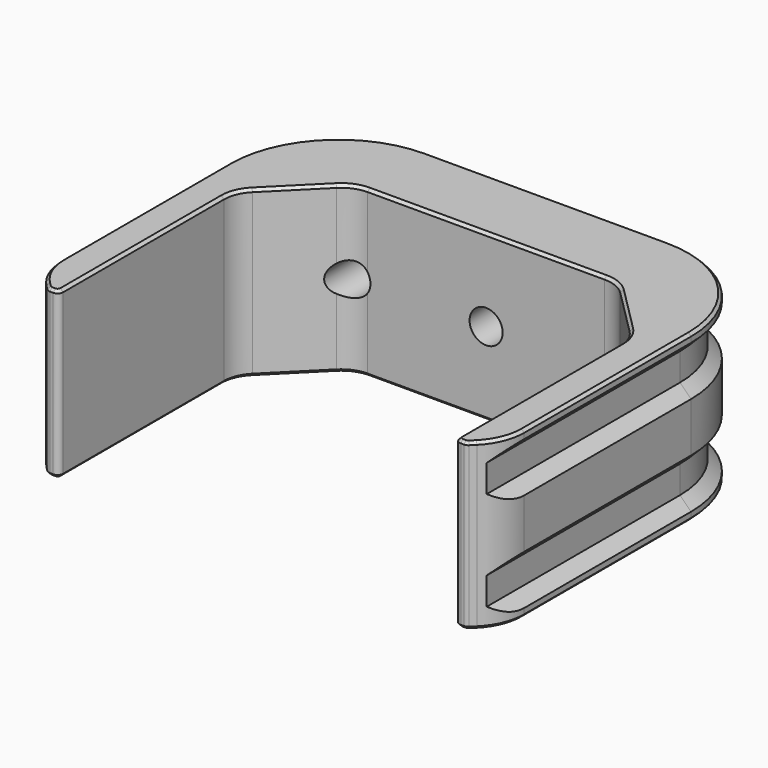
from build123d import *

# Parameters (mm, degrees)
PAD_DEPTH       = 15
FILLET_R        = 10
FILLET001_R     = 3
CHAMFER_SIZE    = 2
FILLET002_R     = 0.5
FILLET003_R     = 5
CHAMFER001_SIZE = 0.25
SKETCH003_R     = 1.5
POCKET_DEPTH    = 33.001


with BuildPart() as sweep_body:
    # Sweep: sweep along a path in Sketch001
    with BuildLine(Plane.XY) as sweep_path:
        Line((21, -10), (21, 15.000008))
        ThreePointArc((21, 15.000008), (18.071065, 22.071071), (11, 25))
        Line((11, 25), (-11, 25))
        ThreePointArc((-11, 25), (-18.071068, 22.071068), (-21, 15))
        Line((-21, 15), (-21, -10))
    # Sketch002 → Sweep (sweep)
    with BuildSketch(Plane.XZ.offset(10)):
        Polygon((22, 3.25), (22, -3.25), (20, -1.25), (20, 1.25), align=None)
    sweep(path=sweep_path.line)


with BuildPart() as sweep_body_1:
    # Sweep placement: moved
    add(sweep_body.part.moved(Location((0, 0, 3))))


with BuildPart() as fusion:
    # Clone base: copy of Sweep body
    add(sweep_body_1.part)


with BuildPart() as fusion_1:
    # Clone placement: moved
    add(fusion.part.moved(Location((0, 0, 9))))

    # Fusion: union Sweep body
    add(sweep_body_1.part)


with BuildPart() as pocket:
    # Sketch → Pad (new body)
    with BuildSketch(Plane.XY):
        Polygon((-18, -8), (-18, 12), (-12, 18), (12, 18), (18, 12), (18, -8), (21, -8), (21, 25), (-21, 25), (-21, -8), align=None)
    extrude(amount=PAD_DEPTH)

    # Fillet
    fillet_edges = [pocket.edges().sort_by_distance(p)[0] for p in [
        (-21, 25, 7.5),
        (21, 25, 7.5),
    ]]
    fillet(fillet_edges, radius=FILLET_R)

    # Fillet001
    fillet001_edges = [pocket.edges().sort_by_distance(p)[0] for p in [
        (-12, 18, 7.5),
        (-18, 12, 7.5),
        (12, 18, 7.5),
        (18, 12, 7.5),
    ]]
    fillet(fillet001_edges, radius=FILLET001_R)

    # Chamfer
    chamfer_edges = [pocket.edges().sort_by_distance(p)[0] for p in [
        (-21, -8, 7.5),
        (21, -8, 7.5),
    ]]
    chamfer(chamfer_edges, length=CHAMFER_SIZE)

    # Fillet002
    fillet002_edges = [pocket.edges().sort_by_distance(p)[0] for p in [
        (-19, -8, 7.5),
        (-18, -8, 7.5),
        (19, -8, 7.5),
        (18, -8, 7.5),
    ]]
    fillet(fillet002_edges, radius=FILLET002_R)

    # Fillet003
    fillet003_edges = [pocket.edges().sort_by_distance(p)[0] for p in [
        (-21, -6, 7.5),
        (21, -6, 7.5),
    ]]
    fillet(fillet003_edges, radius=FILLET003_R)

    # Chamfer001
    chamfer001_edges = [pocket.edges().sort_by_distance(p)[0] for p in [
        (19.34099, -7.65901, 15),
        (20.619398, -5.842349, 15),
        (18.984235, -7.96194, 15),
        (21, 5.535534, 15),
        (18.646447, -8, 15),
        (18.071068, 22.071068, 15),
        (18.146447, -7.853553, 15),
        (0, 25, 15),
        (18, 1.62868, 15),
        (-18.071068, 22.071068, 15),
        (17.771639, 11.90541, 15),
        (-21, 5.535534, 15),
        (15, 15, 15),
        (-20.619398, -5.842349, 15),
        (11.90541, 17.771639, 15),
        (-19.34099, -7.65901, 15),
        (0, 18, 15),
        (-18.984235, -7.96194, 15),
        (-11.90541, 17.771639, 15),
        (-18.646447, -8, 15),
        (-15, 15, 15),
        (-18.146447, -7.853553, 15),
        (-17.771639, 11.90541, 15),
        (-18, 1.62868, 15),
        (19.34099, -7.65901, 0),
        (20.619398, -5.842349, 0),
        (18.984235, -7.96194, 0),
        (21, 5.535534, 0),
        (18.646447, -8, 0),
        (18.071068, 22.071068, 0),
        (18.146447, -7.853553, 0),
        (0, 25, 0),
        (18, 1.62868, 0),
        (-18.071068, 22.071068, 0),
        (17.771639, 11.90541, 0),
        (-21, 5.535534, 0),
        (15, 15, 0),
        (-20.619398, -5.842349, 0),
        (11.90541, 17.771639, 0),
        (-19.34099, -7.65901, 0),
        (0, 18, 0),
        (-18.984235, -7.96194, 0),
        (-11.90541, 17.771639, 0),
        (-18.646447, -8, 0),
        (-15, 15, 0),
        (-18.146447, -7.853553, 0),
        (-17.771639, 11.90541, 0),
        (-18, 1.62868, 0),
    ]]
    chamfer(chamfer001_edges, length=CHAMFER001_SIZE)

    # Cut: cut Fusion
    add(fusion_1.part, mode=Mode.SUBTRACT)

    # Sketch003 → Pocket (cut, through all)
    with BuildSketch(Plane(origin=(0, 25, 0), x_dir=(-1, 0, 0), z_dir=(0, 1, 0))):
        with Locations((-12, 7.5)):
            Circle(SKETCH003_R)
        with Locations((0, 7.5)):
            Circle(SKETCH003_R)
        with Locations((12, 7.5)):
            Circle(SKETCH003_R)
    extrude(amount=-POCKET_DEPTH, mode=Mode.SUBTRACT)


solid = pocket.part
